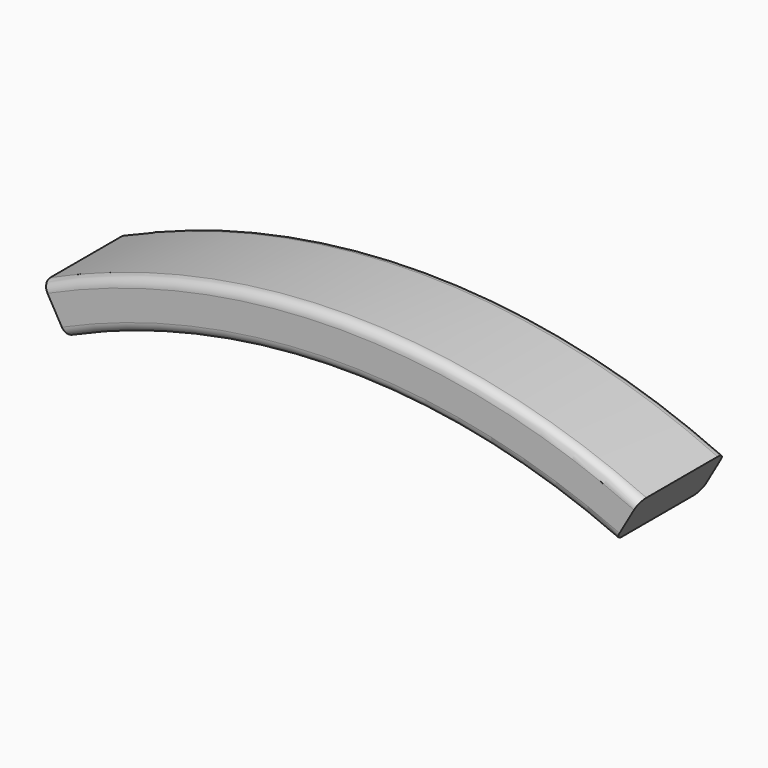
from build123d import *

# Parameters (mm, degrees)
F1_DEPTH = 57.15
F2_R     = 5.08


with BuildPart() as f1:
    # F0 (on Front) → F1 (new body)
    with BuildSketch(Plane.XZ):
        with BuildLine():
            Line((144.78, 324.792413), (157.48, 346.9309))
            ThreePointArc((157.48, 346.9309), (0, 381), (-157.48, 346.9309))
            Line((-157.48, 346.9309), (-144.78, 324.792413))
            ThreePointArc((-144.78, 324.792413), (0, 355.6), (144.78, 324.792413))
        make_face()
    extrude(amount=-F1_DEPTH)

    # F2
    f2_edges = [f1.edges().sort_by_distance(p)[0] for p in [
        (0, 0, 355.6),
        (0, 0, 381),
        (0, 57.15, 381),
        (0, 57.15, 355.6),
    ]]
    fillet(f2_edges, radius=F2_R)


solid = f1.part
